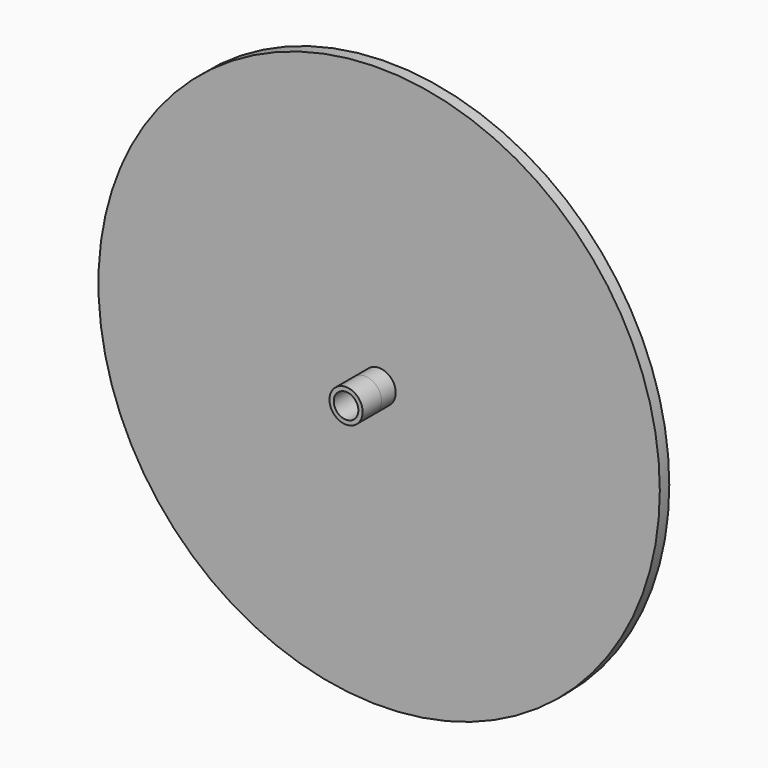
from build123d import *

# Parameters (mm, degrees)
F0_R     = 60.325
F1_DEPTH = 2.54
F2_R     = 3.5626601451
F3_DEPTH = 3.81
F4_DEPTH = 5.08
F5_DEPTH = 5.08
F6_R     = 2.6436042206
F7_DEPTH = 17.781


with BuildPart() as f1:
    # F0 (on Front) → F1 (new body)
    with BuildSketch(Plane.XZ):
        with Locations((-14.8387914523, 8.9064473286)):
            Circle(F0_R)
    extrude(amount=F1_DEPTH)

    # F2 (on face) → F3 (join, symmetric)
    with BuildSketch(Plane.XZ.offset(2.54)):
        with Locations((-14.8387914523, 8.9064473286)):
            Circle(F2_R)
    extrude(amount=F3_DEPTH, both=True)

    # F4 (add): a face of the model
    f4_faces = [f1.faces().sort_by_distance(p)[0] for p in [
        (-14.8387914523, 1.27, 8.9064473286),
    ]]
    extrude(f4_faces, amount=F4_DEPTH)

    # F5 (add): a face of the model
    f5_faces = [f1.faces().sort_by_distance(p)[0] for p in [
        (-14.8387914523, -6.35, 8.9064473286),
    ]]
    extrude(f5_faces, amount=F5_DEPTH)

    # F6 (on face) → F7 (cut, through all)
    with BuildSketch(Plane.XZ.offset(11.43)):
        with Locations((-14.8387914523, 8.9064473286)):
            Circle(F6_R)
    extrude(amount=-F7_DEPTH, mode=Mode.SUBTRACT)


solid = f1.part
